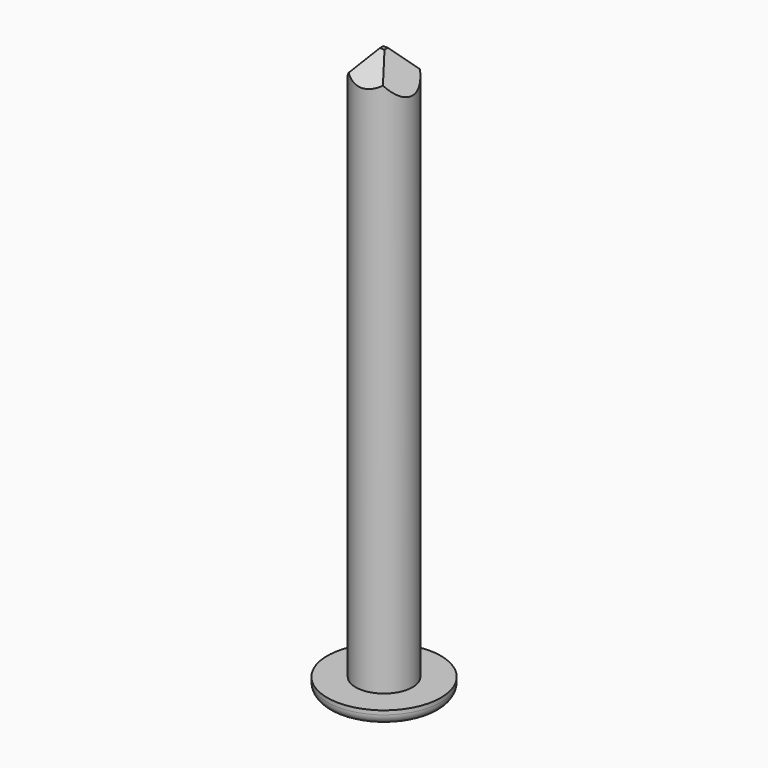
from build123d import *

# Parameters (mm, degrees)
F0_R          = 0.5
F1_DEPTH      = 10
F0_R_2        = 1
F2_DEPTH      = 0.25
F3_R          = 0.18
F5_DEPTH      = 50
F5_DEPTH_BACK = 2.6
F7_DEPTH      = 50
F7_DEPTH_BACK = 2.875


with BuildPart() as f1:
    # F0 (on Top) → F1 (new body)
    with BuildSketch(Plane.XY):
        Circle(F0_R)
    extrude(amount=F1_DEPTH)

    # F0 (on Top) → F2 (join)
    with BuildSketch(Plane.XY):
        Circle(F0_R_2)
        Circle(F0_R, mode=Mode.SUBTRACT)
    extrude(amount=F2_DEPTH)

    # F3
    f3_edges = [f1.edges().sort_by_distance(p)[0] for p in [
        (-1, 0, 0),
    ]]
    fillet(f3_edges, radius=F3_R)

    # F4 (on Front) → F5 (cut, two sides)
    with BuildSketch(Plane.XZ) as f5_sk:
        Polygon((-1.5745003475, 9.1303680092), (-0.7234219229, 9.1651063412), (0, 10.0509226322), (0.7182004047, 9.1477371752), (1.9166575512, 9.1477371752), (1.9166575512, 11.2493792549), (-1.5745003475, 11.2493792549), align=None)
    extrude(amount=-F5_DEPTH, mode=Mode.SUBTRACT)
    extrude(f5_sk.sketch, amount=F5_DEPTH_BACK, mode=Mode.SUBTRACT)

    # F6 (on Right) → F7 (cut, two sides)
    with BuildSketch(Plane.YZ) as f7_sk:
        Polygon((-1.6177080106, 9.4557581469), (-0.6982019986, 9.4029121101), (0, 10.0370543078), (0.6177483219, 9.3569022621), (1.5635710442, 9.3569022621), (1.5635710442, 11.0094053671), (-1.6177080106, 11.0094053671), align=None)
    extrude(amount=-F7_DEPTH, mode=Mode.SUBTRACT)
    extrude(f7_sk.sketch, amount=F7_DEPTH_BACK, mode=Mode.SUBTRACT)


solid = f1.part
